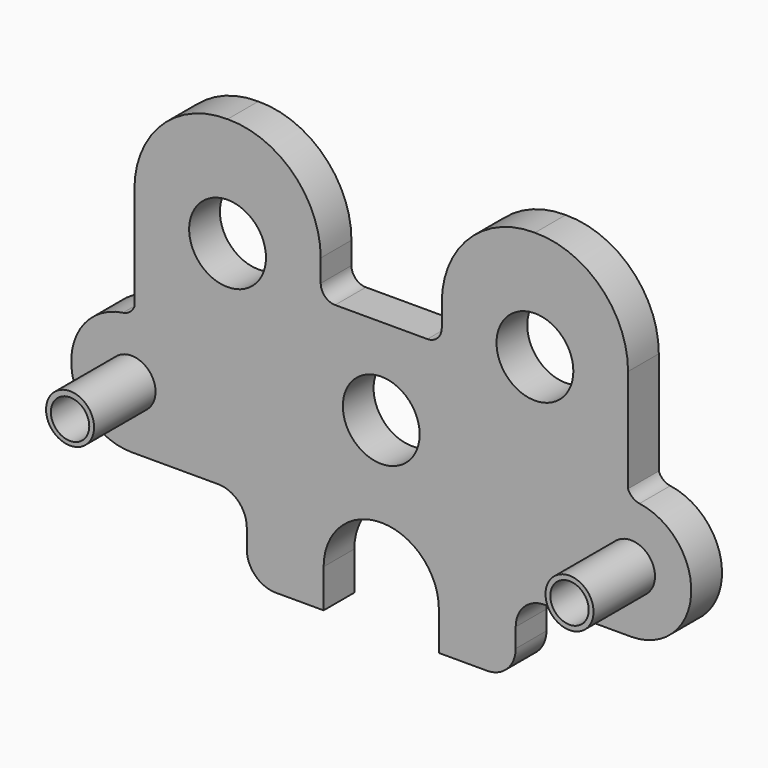
from build123d import *

# Parameters (mm, degrees)
F0_R     = 7.9375
F0_R_2   = 12.7
F0_R_3   = 6.35
F1_DEPTH = 12.7
F2_DEPTH = 38.1


with BuildPart() as f1:
    # F0 (on Front) → F1 (new body)
    with BuildSketch(Plane.XZ):
        with BuildLine():
            ThreePointArc((-81.591531, 6.579279), (-83.065432, 4.527557), (-85.381328, 3.518312))
            ThreePointArc((-85.381328, 3.518312), (-102.43034, -17.629762), (-82.55, -36.141433))
            Line((-82.55, -36.141433), (-53.975, -36.141433))
            ThreePointArc((-53.975, -36.141433), (-47.239808, -38.93124), (-44.45, -45.666433))
            Line((-44.45, -45.666433), (-44.45, -52.006067))
            ThreePointArc((-44.45, -52.006067), (-41.660192, -58.741259), (-34.925, -61.531067))
            Line((-34.925, -61.531067), (-19.05, -61.531067))
            Line((-19.05, -61.531067), (-19.05, -48.831067))
            ThreePointArc((-19.05, -48.831067), (-13.470384, -35.360683), (0, -29.781067))
            ThreePointArc((0, -29.781067), (13.470384, -35.360683), (19.05, -48.831067))
            Line((19.05, -48.831067), (19.05, -61.531067))
            Line((19.05, -61.531067), (34.925, -61.531067))
            ThreePointArc((34.925, -61.531067), (41.660192, -58.741259), (44.45, -52.006067))
            Line((44.45, -52.006067), (44.45, -45.666433))
            ThreePointArc((44.45, -45.666433), (47.239808, -38.93124), (53.975, -36.141433))
            Line((53.975, -36.141433), (82.55, -36.141433))
            ThreePointArc((82.55, -36.141433), (102.430496, -17.627581), (85.376997, 3.518933))
            ThreePointArc((85.376997, 3.518933), (83.066464, 4.523169), (81.591531, 6.565625))
            Line((81.591531, 6.565625), (81.591531, 40.712521))
            ThreePointArc((81.591531, 40.712521), (72.547305, 62.338668), (50.8, 71.087554))
            ThreePointArc((50.8, 71.087554), (29.052695, 62.338668), (20.008469, 40.712521))
            Line((20.008469, 40.712521), (20.008469, 33.3375))
            ThreePointArc((20.008469, 33.3375), (18.613565, 29.969904), (15.245969, 28.575))
            Line((15.245969, 28.575), (-15.245969, 28.575))
            ThreePointArc((-15.245969, 28.575), (-18.613565, 29.969904), (-20.008469, 33.3375))
            Line((-20.008469, 33.3375), (-20.008469, 40.712521))
            ThreePointArc((-20.008469, 40.712521), (-29.052695, 62.338668), (-50.8, 71.087554))
            ThreePointArc((-50.8, 71.087554), (-72.547305, 62.338668), (-81.591531, 40.712521))
            Line((-81.591531, 40.712521), (-81.591531, 6.579279))
        make_face()
        with Locations((-82.55, -15.985183)):
            Circle(F0_R, mode=Mode.SUBTRACT)
        Circle(F0_R_2, mode=Mode.SUBTRACT)
        with Locations((82.55, -15.985183)):
            Circle(F0_R, mode=Mode.SUBTRACT)
        with Locations((-50.8, 34.925)):
            Circle(F0_R_2, mode=Mode.SUBTRACT)
        with Locations((50.8, 34.925)):
            Circle(F0_R_2, mode=Mode.SUBTRACT)
        with Locations((-82.55, -15.985183)):
            Circle(F0_R)
        with Locations((-82.55, -16.210495)):
            Circle(F0_R_3, mode=Mode.SUBTRACT)
        with Locations((82.55, -15.985183)):
            Circle(F0_R)
        with Locations((82.55, -15.985183)):
            Circle(F0_R_3, mode=Mode.SUBTRACT)
    extrude(amount=F1_DEPTH)

    # F0 (on Front) → F2 (join)
    with BuildSketch(Plane.XZ):
        with Locations((82.55, -15.985183)):
            Circle(F0_R)
        with Locations((82.55, -15.985183)):
            Circle(F0_R_3, mode=Mode.SUBTRACT)
        with Locations((-82.55, -15.985183)):
            Circle(F0_R)
        with Locations((-82.55, -16.210495)):
            Circle(F0_R_3, mode=Mode.SUBTRACT)
    extrude(amount=F2_DEPTH)


solid = f1.part
